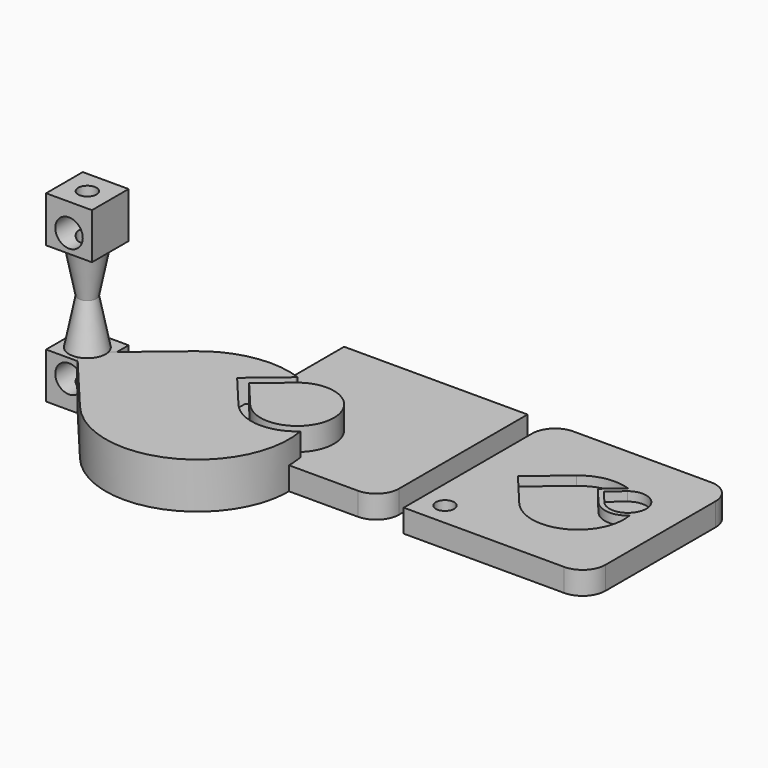
from build123d import *

# Parameters (mm, degrees)
CYLINDER003_R             = 2
CYLINDER003_DEPTH         = 22
CYLINDER002_R             = 3
CYLINDER002_DEPTH         = 100
CYLINDER002_ROLL_ANGLE    = 90
BOX001_W                  = 10
BOX001_H                  = 10
BOX001_DEPTH              = 10
CYLINDER001_R             = 2
CYLINDER001_DEPTH         = 22
CYLINDER_R                = 3
CYLINDER_DEPTH            = 100
CYLINDER_ROLL_ANGLE       = 90
BOX_W                     = 10
BOX_H                     = 10
BOX_DEPTH                 = 10
CYLINDER005_R             = 2
CYLINDER005_DEPTH         = 10
BOX004_W                  = 40
BOX004_H                  = 40
BOX004_DEPTH              = 5
FILLET003_R               = 5
BOX006_W                  = 10
BOX006_H                  = 10
BOX006_DEPTH              = 12
CYLINDER007_R             = 10
CYLINDER007_DEPTH         = 12
BOX005_W                  = 20
BOX005_H                  = 20
BOX005_DEPTH              = 10
CYLINDER006_R             = 20
CYLINDER006_DEPTH         = 10
BOX003_W                  = 8
BOX003_H                  = 8
BOX003_DEPTH              = 10
CYLINDER008_R             = 8
CYLINDER008_DEPTH         = 10
FUSION006_PLACEMENT_ANGLE = 220
CLONE_SCALE_SCALE         = 0.5
CYLINDER004_R             = 2
CYLINDER004_DEPTH         = 10
BOX002_W                  = 40
BOX002_H                  = 40
BOX002_DEPTH              = 5
FILLET_R                  = 5
FILLET001_R               = 5
FILLET002_R               = 5


with BuildPart() as cylinder003:
    # Cylinder003 → Cylinder003 (new body)
    with BuildSketch(Plane(origin=(5, 5, -1), x_dir=(1, 0, 0), z_dir=(0, 0, 1))):
        Circle(CYLINDER003_R)
    extrude(amount=CYLINDER003_DEPTH)


with BuildPart() as cone001:
    # Cone001 → Cone001 (revolve)
    with BuildSketch(Plane(origin=(5, 5, 10), x_dir=(1, 0, 0), z_dir=(0, -1, 0))):
        Polygon((0, 0), (4, 0), (2, 10), (0, 10), align=None)
    revolve(axis=Axis((5, 5, 10), (0, 0, 1)))


with BuildPart() as cylinder002:
    # Cylinder002 → Cylinder002 (new body)
    with BuildSketch(Plane.XY):
        Circle(CYLINDER002_R)
    extrude(amount=CYLINDER002_DEPTH)


with BuildPart() as cylinder002_1:
    # Cylinder002 roll: moved
    add(cylinder002.part.rotate(Axis((0, 0, 0), (1, 0, 0)), CYLINDER002_ROLL_ANGLE))


with BuildPart() as cylinder002_2:
    # Cylinder002 placement: moved
    add(cylinder002_1.part.moved(Location((5, 10, 6))))


with BuildPart() as cut003:
    # Box001 → Box001 (new body)
    with BuildSketch(Plane.XY):
        with Locations((5, 5)):
            Rectangle(BOX001_W, BOX001_H)
    extrude(amount=BOX001_DEPTH)

    # Cut002: cut Cylinder002
    add(cylinder002_2.part, mode=Mode.SUBTRACT)

    # Fusion001: union Cone001
    add(cone001.part)

    # Cut003: cut Cylinder003
    add(cylinder003.part, mode=Mode.SUBTRACT)


with BuildPart() as cut003_1:
    # Cut003 placement: moved
    add(cut003.part.moved(Location((23, 0, 0))))


with BuildPart() as part_mirroring:
    # Part__Mirroring: instance of Cut003
    add(cut003_1.part.mirror(Plane(origin=(0, 0, 0), x_dir=(0, 1, 0), z_dir=(0, 0, 1))))


with BuildPart() as part_mirroring_1:
    # Part__Mirroring placement: moved
    add(part_mirroring.part.moved(Location((-23, 0, 40))))


with BuildPart() as cylinder001:
    # Cylinder001 → Cylinder001 (new body)
    with BuildSketch(Plane(origin=(5, 5, -1), x_dir=(1, 0, 0), z_dir=(0, 0, 1))):
        Circle(CYLINDER001_R)
    extrude(amount=CYLINDER001_DEPTH)


with BuildPart() as cone:
    # Cone → Cone (revolve)
    with BuildSketch(Plane(origin=(5, 5, 10), x_dir=(1, 0, 0), z_dir=(0, -1, 0))):
        Polygon((0, 0), (4, 0), (2, 10), (0, 10), align=None)
    revolve(axis=Axis((5, 5, 10), (0, 0, 1)))


with BuildPart() as cylinder:
    # Cylinder → Cylinder (new body)
    with BuildSketch(Plane.XY):
        Circle(CYLINDER_R)
    extrude(amount=CYLINDER_DEPTH)


with BuildPart() as cylinder_1:
    # Cylinder roll: moved
    add(cylinder.part.rotate(Axis((0, 0, 0), (1, 0, 0)), CYLINDER_ROLL_ANGLE))


with BuildPart() as cylinder_2:
    # Cylinder placement: moved
    add(cylinder_1.part.moved(Location((5, 10, 6))))


with BuildPart() as fusion002:
    # Box → Box (new body)
    with BuildSketch(Plane.XY):
        with Locations((5, 5)):
            Rectangle(BOX_W, BOX_H)
    extrude(amount=BOX_DEPTH)

    # Cut: cut Cylinder
    add(cylinder_2.part, mode=Mode.SUBTRACT)

    # Fusion: union Cone
    add(cone.part)

    # Cut001: cut Cylinder001
    add(cylinder001.part, mode=Mode.SUBTRACT)

    # Fusion002: union Part__Mirroring
    add(part_mirroring_1.part)


with BuildPart() as fusion002_1:
    # Fusion002 placement: moved
    add(fusion002.part.moved(Location((-33, 0, 0))))


with BuildPart() as cylinder005:
    # Cylinder005 → Cylinder005 (new body)
    with BuildSketch(Plane(origin=(5, 5, 0), x_dir=(1, 0, 0), z_dir=(0, 0, 1))):
        Circle(CYLINDER005_R)
    extrude(amount=CYLINDER005_DEPTH)


with BuildPart() as fillet003:
    # Box004 → Box004 (new body)
    with BuildSketch(Plane.XY):
        with Locations((20, 20)):
            Rectangle(BOX004_W, BOX004_H)
    extrude(amount=BOX004_DEPTH)

    # Cut006: cut Cylinder005
    add(cylinder005.part, mode=Mode.SUBTRACT)

    # Fillet003
    fillet003_edges = [fillet003.edges().sort_by_distance(p)[0] for p in [
        (40, 0, 2.5),
    ]]
    fillet(fillet003_edges, radius=FILLET003_R)


with BuildPart() as cube006:
    # Box006 → Box006 (new body)
    with BuildSketch(Plane(origin=(0, -10, -1), x_dir=(1, 0, 0), z_dir=(0, 0, 1))):
        with Locations((5, 5)):
            Rectangle(BOX006_W, BOX006_H)
    extrude(amount=BOX006_DEPTH)


with BuildPart() as fusion004:
    # Cylinder007 → Cylinder007 (new body)
    with BuildSketch(Plane.XY.offset(-1)):
        Circle(CYLINDER007_R)
    extrude(amount=CYLINDER007_DEPTH)

    # Fusion004: union Cube006
    add(cube006.part)


with BuildPart() as fusion004_1:
    # Fusion004 placement: moved
    add(fusion004.part.moved(Location((-17, 0, 0))))


with BuildPart() as cube005:
    # Box005 → Box005 (new body)
    with BuildSketch(Plane(origin=(0, -20, 0), x_dir=(1, 0, 0), z_dir=(0, 0, 1))):
        with Locations((10, 10)):
            Rectangle(BOX005_W, BOX005_H)
    extrude(amount=BOX005_DEPTH)


with BuildPart() as cut007:
    # Cylinder006 → Cylinder006 (new body)
    with BuildSketch(Plane.XY):
        Circle(CYLINDER006_R)
    extrude(amount=CYLINDER006_DEPTH)

    # Fusion003: union Cube005
    add(cube005.part)

    # Cut007: cut Fusion004
    add(fusion004_1.part, mode=Mode.SUBTRACT)


with BuildPart() as cube003:
    # Box003 → Box003 (new body)
    with BuildSketch(Plane(origin=(0, -8, 0), x_dir=(1, 0, 0), z_dir=(0, 0, 1))):
        with Locations((4, 4)):
            Rectangle(BOX003_W, BOX003_H)
    extrude(amount=BOX003_DEPTH)


with BuildPart() as obj1:
    # Cylinder008 → Cylinder008 (new body)
    with BuildSketch(Plane.XY):
        Circle(CYLINDER008_R)
    extrude(amount=CYLINDER008_DEPTH)

    # Fusion005: union Cube003
    add(cube003.part)


with BuildPart() as obj1_1:
    # Fusion005 placement: moved
    add(obj1.part.moved(Location((-17, 0, 0))))

    # Fusion006: union Cut007
    add(cut007.part)


with BuildPart() as obj1_2:
    # Fusion006 placement: moved
    add(obj1_1.part.rotate(Axis((0, 0, 0), (0, 0, 1)), FUSION006_PLACEMENT_ANGLE))


with BuildPart() as obj2:
    # Clone base: copy of obj1
    add(obj1_2.part)


with BuildPart() as obj2_1:
    # Clone scale: moved
    add(obj2.part.scale(CLONE_SCALE_SCALE))


with BuildPart() as obj2_2:
    # Clone placement: moved
    add(obj2_1.part.moved(Location((67, 20, 3))))


with BuildPart() as cylinder004:
    # Cylinder004 → Cylinder004 (new body)
    with BuildSketch(Plane(origin=(5, 5, 0), x_dir=(1, 0, 0), z_dir=(0, 0, 1))):
        Circle(CYLINDER004_R)
    extrude(amount=CYLINDER004_DEPTH)


with BuildPart() as cut008:
    # Box002 → Box002 (new body)
    with BuildSketch(Plane.XY):
        with Locations((20, 20)):
            Rectangle(BOX002_W, BOX002_H)
    extrude(amount=BOX002_DEPTH)

    # Cut004: cut Cylinder004
    add(cylinder004.part, mode=Mode.SUBTRACT)

    # Fillet
    fillet_edges = [cut008.edges().sort_by_distance(p)[0] for p in [
        (40, 0, 2.5),
    ]]
    fillet(fillet_edges, radius=FILLET_R)

    # Fillet001
    fillet001_edges = [cut008.edges().sort_by_distance(p)[0] for p in [
        (40, 40, 2.5),
    ]]
    fillet(fillet001_edges, radius=FILLET001_R)

    # Fillet002
    fillet002_edges = [cut008.edges().sort_by_distance(p)[0] for p in [
        (0, 40, 2.5),
    ]]
    fillet(fillet002_edges, radius=FILLET002_R)


with BuildPart() as cut008_1:
    # Fillet002 placement: moved
    add(cut008.part.moved(Location((45, 0, 0))))

    # Cut008: cut obj2
    add(obj2_2.part, mode=Mode.SUBTRACT)


solid = Compound([fusion002_1.part, fillet003.part, obj1_2.part, cut008_1.part])
